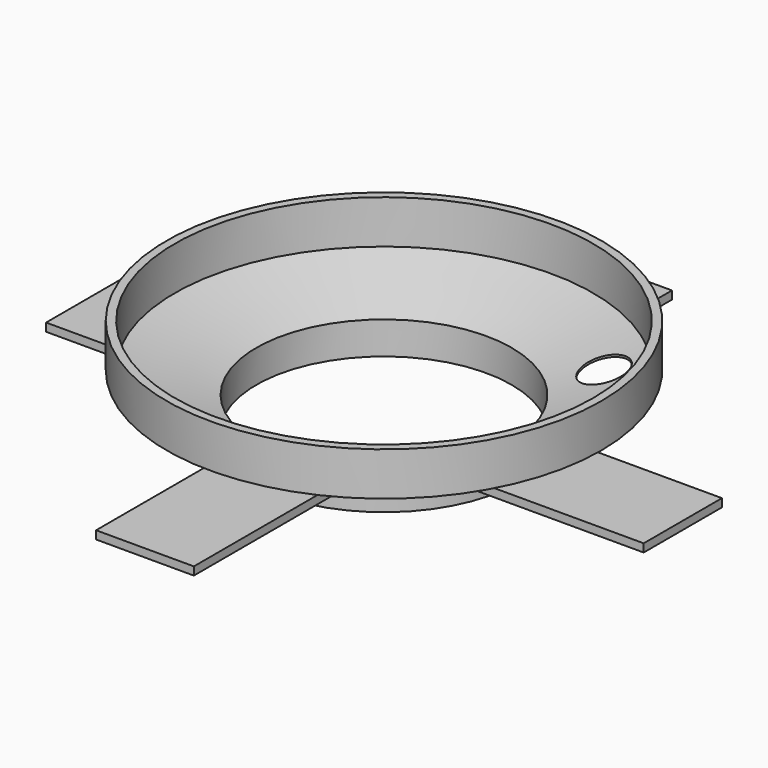
from build123d import *

# Parameters (mm, degrees)
CYLINDER004_R     = 23.5
CYLINDER004_DEPTH = 6
CYLINDER003_R     = 25
CYLINDER003_DEPTH = 6
CYLINDER_R        = 4
CYLINDER_DEPTH    = 10
CYLINDER005_R     = 25
CYLINDER005_DEPTH = 6
BOX_W             = 110
BOX_H             = 18
BOX_DEPTH         = 1.5
BOX001_W          = 18
BOX001_H          = 110
BOX001_DEPTH      = 1.5
CYLINDER002_R     = 38.5
CYLINDER002_DEPTH = 8
CYLINDER001_R     = 40
CYLINDER001_DEPTH = 8


with BuildPart() as cilindro004:
    # Cylinder004 → Cylinder004 (new body)
    with BuildSketch(Plane.XY.offset(-18)):
        Circle(CYLINDER004_R)
    extrude(amount=CYLINDER004_DEPTH)


with BuildPart() as cut002:
    # Cylinder003 → Cylinder003 (new body)
    with BuildSketch(Plane.XY.offset(-18)):
        Circle(CYLINDER003_R)
    extrude(amount=CYLINDER003_DEPTH)

    # Cut002: cut Cilindro004
    add(cilindro004.part, mode=Mode.SUBTRACT)


with BuildPart() as cilindro:
    # Cylinder → Cylinder (new body)
    with BuildSketch(Plane(origin=(22.5, 22.5, -14), x_dir=(1, 0, 0), z_dir=(0, 0, 1))):
        Circle(CYLINDER_R)
    extrude(amount=CYLINDER_DEPTH)


with BuildPart() as cono001:
    # Cone001 → Cone001 (revolve)
    with BuildSketch(Plane(origin=(0, 0, -12), x_dir=(1, 0, 0), z_dir=(0, -1, 0))):
        Polygon((0, 0), (23.5, 0), (38.5, 4), (0, 4), align=None)
    revolve(axis=Axis((0, 0, -12), (0, 0, 1)))


with BuildPart() as cut004:
    # Cone → Cone (revolve)
    with BuildSketch(Plane(origin=(0, 0, -12), x_dir=(1, 0, 0), z_dir=(0, -1, 0))):
        Polygon((0, 0), (25, 0), (40, 4), (0, 4), align=None)
    revolve(axis=Axis((0, 0, -12), (0, 0, 1)))

    # Cut001: cut Cono001
    add(cono001.part, mode=Mode.SUBTRACT)

    # Cut004: cut Cilindro
    add(cilindro.part, mode=Mode.SUBTRACT)


with BuildPart() as cilindro005:
    # Cylinder005 → Cylinder005 (new body)
    with BuildSketch(Plane.XY.offset(-18)):
        Circle(CYLINDER005_R)
    extrude(amount=CYLINDER005_DEPTH)


with BuildPart() as cubo:
    # Box → Box (new body)
    with BuildSketch(Plane(origin=(-55, -9, 0), x_dir=(1, 0, 0), z_dir=(0, 0, 1))):
        with Locations((55, 9)):
            Rectangle(BOX_W, BOX_H)
    extrude(amount=BOX_DEPTH)


with BuildPart() as cut005:
    # Box001 → Box001 (new body)
    with BuildSketch(Plane(origin=(-9, -55, 0), x_dir=(1, 0, 0), z_dir=(0, 0, 1))):
        with Locations((9, 55)):
            Rectangle(BOX001_W, BOX001_H)
    extrude(amount=BOX001_DEPTH)

    # Fusion: union Cubo
    add(cubo.part)


with BuildPart() as cut005_1:
    # Fusion placement: moved
    add(cut005.part.moved(Location((0, 0, -16))))

    # Cut005: cut Cilindro005
    add(cilindro005.part, mode=Mode.SUBTRACT)


with BuildPart() as cilindro002:
    # Cylinder002 → Cylinder002 (new body)
    with BuildSketch(Plane.XY.offset(-8)):
        Circle(CYLINDER002_R)
    extrude(amount=CYLINDER002_DEPTH)


with BuildPart() as fusion001:
    # Cylinder001 → Cylinder001 (new body)
    with BuildSketch(Plane.XY.offset(-8)):
        Circle(CYLINDER001_R)
    extrude(amount=CYLINDER001_DEPTH)

    # Cut: cut Cilindro002
    add(cilindro002.part, mode=Mode.SUBTRACT)

    # Fusion001: union Cut002, Cut004, Cut005
    add(cut002.part)
    add(cut004.part)
    add(cut005_1.part)


solid = fusion001.part
